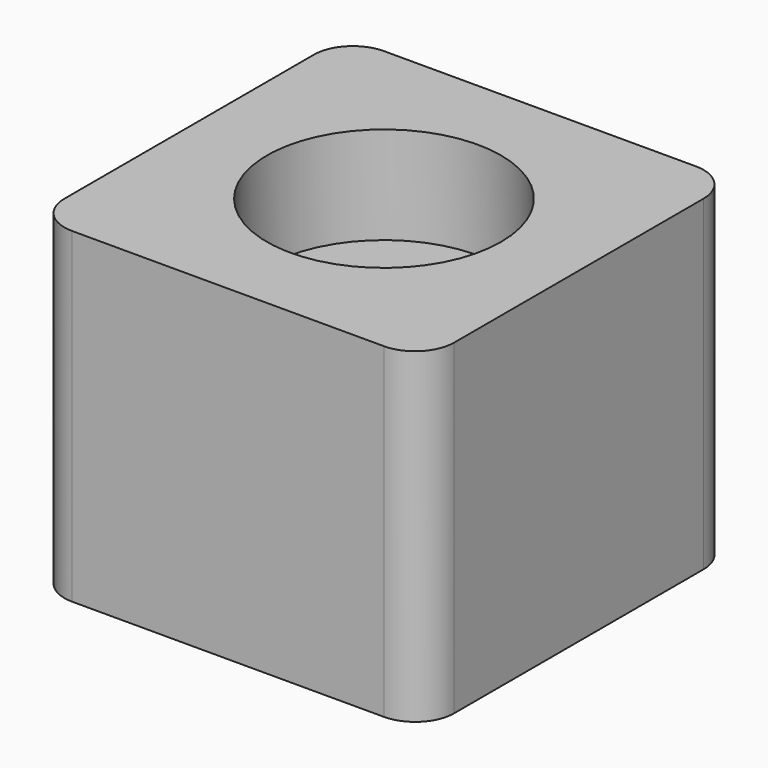
from build123d import *

# Parameters (mm, degrees)
F1_DEPTH = 21.26996
F2_R     = 7.6327
F3_DEPTH = 6.35


with BuildPart() as f1:
    # F0 (on Top) → F1 (new body)
    with BuildSketch(Plane.XY):
        with BuildLine():
            Line((10.16, 12.7), (-10.16, 12.7))
            ThreePointArc((-10.16, 12.7), (-11.956051, 11.956051), (-12.7, 10.16))
            Line((-12.7, 10.16), (-12.7, -10.16))
            ThreePointArc((-12.7, -10.16), (-11.956051, -11.956051), (-10.16, -12.7))
            Line((-10.16, -12.7), (10.16, -12.7))
            ThreePointArc((10.16, -12.7), (11.956051, -11.956051), (12.7, -10.16))
            Line((12.7, -10.16), (12.7, 10.16))
            ThreePointArc((12.7, 10.16), (11.956051, 11.956051), (10.16, 12.7))
        make_face()
    extrude(amount=F1_DEPTH)

    # F2 (on face) → F3 (cut)
    with BuildSketch(Plane.XY.offset(21.26996)):
        Circle(F2_R)
        Circle(F2_R)
    extrude(amount=-F3_DEPTH, mode=Mode.SUBTRACT)


solid = f1.part
